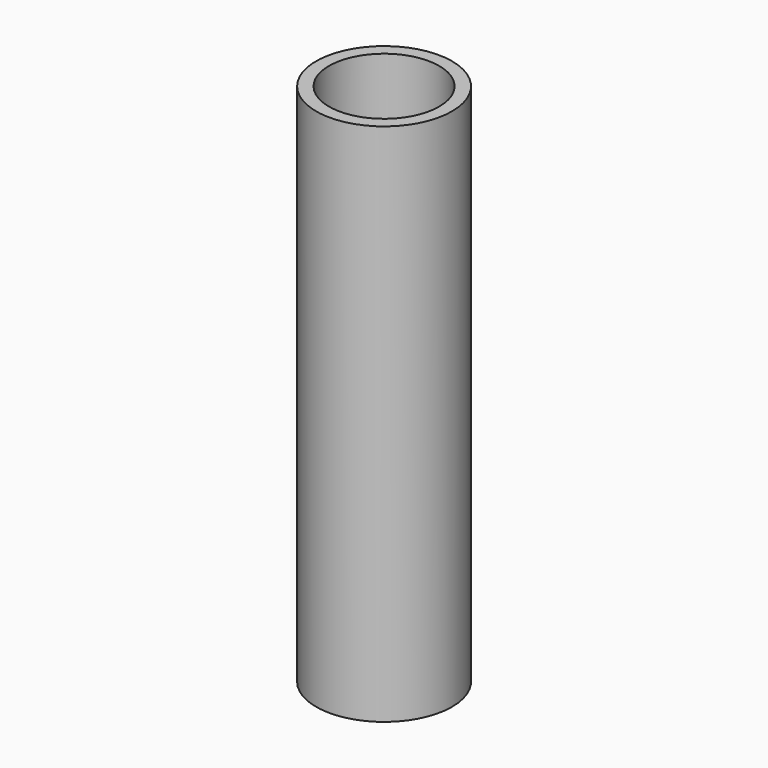
from build123d import *

# Parameters (mm, degrees)
SKETCH_R   = 25.4
SKETCH_R_2 = 20.6
PAD_DEPTH  = 196


with BuildPart() as part:
    # Sketch → Pad (new body)
    with BuildSketch(Plane.XY):
        Circle(SKETCH_R)
        Circle(SKETCH_R_2, mode=Mode.SUBTRACT)
    extrude(amount=PAD_DEPTH)


solid = part.part
